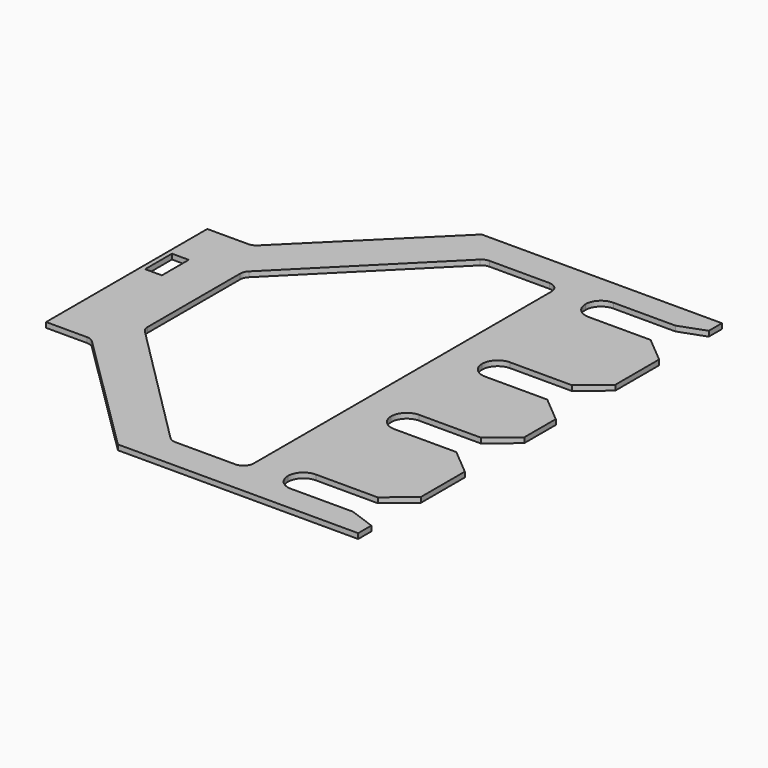
from build123d import *

# Parameters (mm, degrees)
F0_W     = 55.5498
F0_H     = 247.65
F0_W_2   = 20.6248
F0_H_2   = 41.275
F1_DEPTH = 6.35
F2_R     = 12.7


with BuildPart() as f1:
    # F0 (on Top) → F1 (new body)
    with BuildSketch(Plane.XY):
        Polygon((476.25, 31.75), (476.25, 0), (508, 0), (508, 20.193), align=None)
        Polygon((508, 558.8), (476.25, 558.8), (476.25, 527.05), (508, 538.607), align=None)
        with Locations((27.7749, 279.4)):
            Rectangle(F0_W, F0_H)
        with Locations((15.9004, 321.3735)):
            Rectangle(F0_W_2, F0_H_2, mode=Mode.SUBTRACT)
        Polygon((476.25, 190.5), (476.25, 69.85), (508, 96.4946), (508, 163.8554), align=None)
        Polygon((476.25, 330.2), (476.25, 228.6), (508, 255.2446), (508, 303.5554), align=None)
        Polygon((476.25, 488.95), (476.25, 368.3), (508, 394.9446), (508, 462.3054), align=None)
        with BuildLine():
            Line((381, 50.7999999586), (381, 0))
            Line((381, 0), (476.25, 0))
            Line((476.25, 0), (476.25, 31.75))
            Line((476.25, 31.75), (400.05, 31.75))
            ThreePointArc((400.05, 31.75), (386.579615833, 37.3296158038), (381, 50.7999999586))
        make_face()
        with BuildLine():
            Line((476.25, 558.8), (381, 558.8))
            Line((381, 558.8), (381, 508))
            ThreePointArc((381, 508), (386.5796158184, 521.4703841816), (400.05, 527.05))
            Line((400.05, 527.05), (476.25, 527.05))
            Line((476.25, 527.05), (476.25, 558.8))
        make_face()
        Polygon((55.5498, 155.575), (212.725, 0), (212.725, 73.014005367), (82.55, 203.2), (82.55, 355.6), (212.725, 485.785994633), (212.725, 558.8), (55.5498, 403.225), align=None)
        Polygon((212.725, 73.014005367), (212.725, 0), (381, 0), (381, 50.7999999586), (381, 209.55), (381, 349.25), (381, 508), (381, 558.8), (212.725, 558.8), (212.725, 485.785994633), (247.6360567651, 520.7), (339.1776567651, 520.7), (339.1776567651, 38.1), (247.6360567651, 38.1), align=None)
        with BuildLine():
            Line((381, 508), (381, 349.25))
            ThreePointArc((381, 349.25), (386.5796158184, 362.7203841816), (400.05, 368.3))
            Line((400.05, 368.3), (476.25, 368.3))
            Line((476.25, 368.3), (476.25, 488.95))
            Line((476.25, 488.95), (400.05, 488.95))
            ThreePointArc((400.05, 488.95), (386.5796158184, 494.5296158184), (381, 508))
        make_face()
        with BuildLine():
            Line((381, 349.25), (381, 209.55))
            ThreePointArc((381, 209.55), (386.5796158184, 223.0203841816), (400.05, 228.6))
            Line((400.05, 228.6), (476.25, 228.6))
            Line((476.25, 228.6), (476.25, 330.2))
            Line((476.25, 330.2), (400.05, 330.2))
            ThreePointArc((400.05, 330.2), (386.5796158184, 335.7796158184), (381, 349.25))
        make_face()
        with BuildLine():
            Line((381, 209.55), (381, 50.7999999586))
            ThreePointArc((381, 50.7999999586), (386.5796158038, 64.270384167), (400.05, 69.85))
            Line((400.05, 69.85), (476.25, 69.85))
            Line((476.25, 69.85), (476.25, 190.5))
            Line((476.25, 190.5), (400.05, 190.5))
            ThreePointArc((400.05, 190.5), (386.5796158184, 196.0796158184), (381, 209.55))
        make_face()
    extrude(amount=F1_DEPTH)

    # F2
    f2_edges = [f1.edges().sort_by_distance(p)[0] for p in [
        (339.177657, 520.7, 3.175),
        (339.177657, 38.1, 3.175),
        (247.636057, 38.1, 3.175),
        (82.55, 203.2, 3.175),
        (82.55, 355.6, 3.175),
        (247.636057, 520.7, 3.175),
        (55.5498, 155.575, 3.175),
        (55.5498, 403.225, 3.175),
    ]]
    fillet(f2_edges, radius=F2_R)


solid = f1.part
